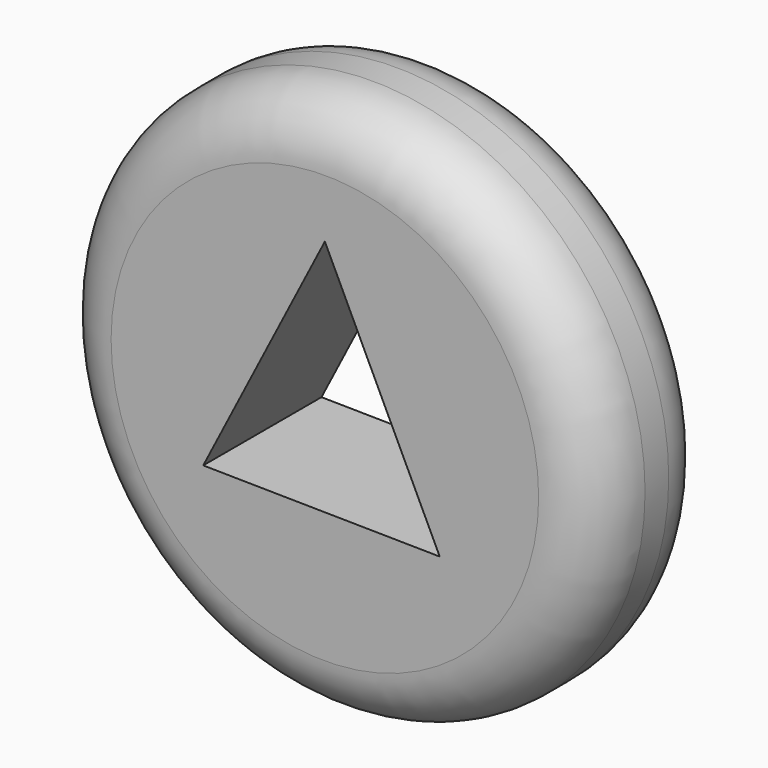
from build123d import *

# Parameters (mm, degrees)
F0_R     = 46.157486
F1_DEPTH = 25
F3_DEPTH = 25
F4_R     = 10


with BuildPart() as f1:
    # F0 (on Front) → F1 (new body)
    with BuildSketch(Plane.XZ):
        Circle(F0_R)
    extrude(amount=F1_DEPTH)

    # F2 (on face) → F3 (cut)
    with BuildSketch(Plane.XZ.offset(25)):
        Polygon((0, 26.293665), (-20.571175, -13.729163), (19.424781, -14.297934), align=None)
    extrude(amount=-F3_DEPTH, mode=Mode.SUBTRACT)

    # F4
    f4_edges = [f1.edges().sort_by_distance(p)[0] for p in [
        (-46.157486, -25, 0),
        (-46.157486, 0, 0),
    ]]
    fillet(f4_edges, radius=F4_R)


solid = f1.part
